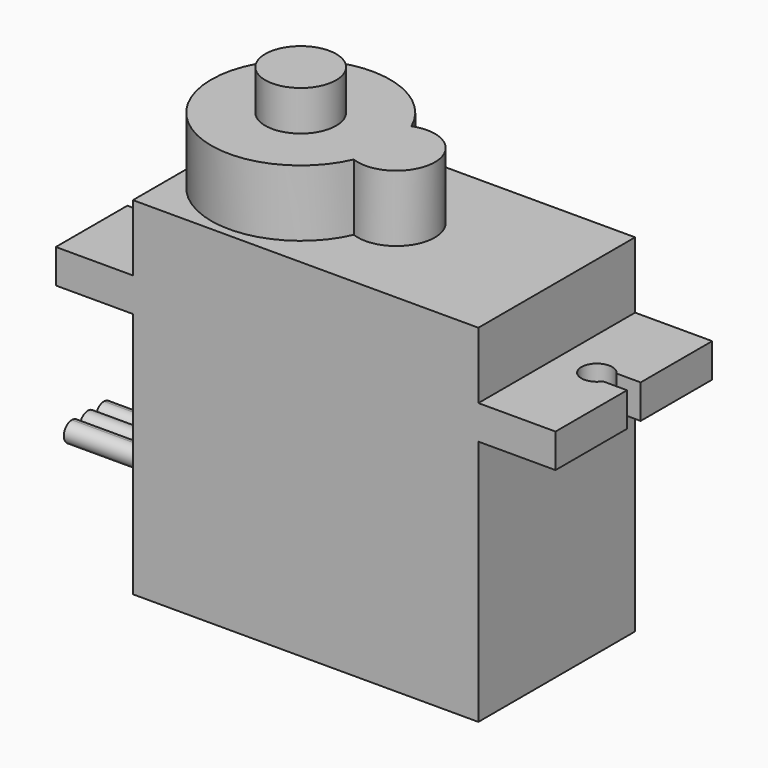
from build123d import *

# Parameters (mm, degrees)
CYLINDER003_R             = 0.65
CYLINDER003_DEPTH         = 10
CYLINDER003_PITCH_ANGLE   = -90
CYLINDER004_R             = 0.65
CYLINDER004_DEPTH         = 10
CYLINDER004_PITCH_ANGLE   = -90
CYLINDER005_R             = 0.65
CYLINDER005_DEPTH         = 10
CYLINDER005_PITCH_ANGLE   = -90
CYLINDER006_R             = 1
CYLINDER006_DEPTH         = 10
BOX005_W                  = 10
BOX005_H                  = 1.1
BOX005_DEPTH              = 10
CYLINDER007_R             = 1
CYLINDER007_DEPTH         = 10
BOX006_W                  = 10
BOX006_H                  = 1.1
BOX006_DEPTH              = 10
FUSION008_PLACEMENT_ANGLE = 180
BOX004_W                  = 5
BOX004_H                  = 12.7
BOX004_DEPTH              = 4.3
BOX003_W                  = 5
BOX003_H                  = 12.7
BOX003_DEPTH              = 4.3
BOX001_W                  = 5
BOX001_H                  = 12.7
BOX001_DEPTH              = 16
BOX002_W                  = 5
BOX002_H                  = 12.7
BOX002_DEPTH              = 16
BOX_W                     = 32.4
BOX_H                     = 12.7
BOX_DEPTH                 = 22.5
CYLINDER001_R             = 2.3
CYLINDER001_DEPTH         = 29.4
CYLINDER002_R             = 2.5
CYLINDER002_DEPTH         = 26.8
CYLINDER_R                = 5.8
CYLINDER_DEPTH            = 26.8


with BuildPart() as obj1:
    # Cylinder003 → Cylinder003 (new body)
    with BuildSketch(Plane.XY):
        Circle(CYLINDER003_R)
    extrude(amount=CYLINDER003_DEPTH)


with BuildPart() as obj1_1:
    # Cylinder003 pitch: moved
    add(obj1.part.rotate(Axis((0, 0, 0), (0, 1, 0)), CYLINDER003_PITCH_ANGLE))


with BuildPart() as obj1_2:
    # Cylinder003 placement: moved
    add(obj1_1.part)


with BuildPart() as obj2:
    # Cylinder004 → Cylinder004 (new body)
    with BuildSketch(Plane.XY):
        Circle(CYLINDER004_R)
    extrude(amount=CYLINDER004_DEPTH)


with BuildPart() as obj2_1:
    # Cylinder004 pitch: moved
    add(obj2.part.rotate(Axis((0, 0, 0), (0, 1, 0)), CYLINDER004_PITCH_ANGLE))


with BuildPart() as obj2_2:
    # Cylinder004 placement: moved
    add(obj2_1.part.moved(Location((0, 1.3, 0))))


with BuildPart() as cables:
    # Cylinder005 → Cylinder005 (new body)
    with BuildSketch(Plane.XY):
        Circle(CYLINDER005_R)
    extrude(amount=CYLINDER005_DEPTH)


with BuildPart() as cables_1:
    # Cylinder005 pitch: moved
    add(cables.part.rotate(Axis((0, 0, 0), (0, 1, 0)), CYLINDER005_PITCH_ANGLE))


with BuildPart() as cables_2:
    # Cylinder005 placement: moved
    add(cables_1.part.moved(Location((0, -1.3, 0))))

    # Fusion003: union obj1, obj2
    add(obj1_2.part)
    add(obj2_2.part)


with BuildPart() as cables_3:
    # Fusion003 placement: moved
    add(cables_2.part.moved(Location((7, 6.35, 4.65))))


with BuildPart() as zylinder:
    # Cylinder006 → Cylinder006 (new body)
    with BuildSketch(Plane.XY):
        Circle(CYLINDER006_R)
    extrude(amount=CYLINDER006_DEPTH)


with BuildPart() as obj3:
    # Box005 → Box005 (new body)
    with BuildSketch(Plane(origin=(-10, -0.55, 0), x_dir=(1, 0, 0), z_dir=(0, 0, 1))):
        with Locations((5, 0.55)):
            Rectangle(BOX005_W, BOX005_H)
    extrude(amount=BOX005_DEPTH)

    # Fusion007: union Zylinder
    add(zylinder.part)


with BuildPart() as obj3_1:
    # Fusion007 placement: moved
    add(obj3.part.moved(Location((2.4, 0, 0))))


with BuildPart() as zylinder001:
    # Cylinder007 → Cylinder007 (new body)
    with BuildSketch(Plane.XY):
        Circle(CYLINDER007_R)
    extrude(amount=CYLINDER007_DEPTH)


with BuildPart() as drillslots:
    # Box006 → Box006 (new body)
    with BuildSketch(Plane(origin=(-10, -0.55, 0), x_dir=(1, 0, 0), z_dir=(0, 0, 1))):
        with Locations((5, 0.55)):
            Rectangle(BOX006_W, BOX006_H)
    extrude(amount=BOX006_DEPTH)

    # Fusion008: union Zylinder001
    add(zylinder001.part)


with BuildPart() as drillslots_1:
    # Fusion008 placement: moved
    add(drillslots.part.moved(Location((30, 0, 0))).rotate(Axis((30, 0, 0), (0, 0, 1)), FUSION008_PLACEMENT_ANGLE))

    # Fusion009: union obj3
    add(obj3_1.part)


with BuildPart() as drillslots_2:
    # Fusion009 placement: moved
    add(drillslots_1.part.moved(Location((0, 6.35, 13))))


with BuildPart() as obj4:
    # Box004 → Box004 (new body)
    with BuildSketch(Plane(origin=(27.4, 0, 0), x_dir=(1, 0, 0), z_dir=(0, 0, 1))):
        with Locations((2.5, 6.35)):
            Rectangle(BOX004_W, BOX004_H)
    extrude(amount=BOX004_DEPTH)


with BuildPart() as uppercuts:
    # Box003 → Box003 (new body)
    with BuildSketch(Plane.XY):
        with Locations((2.5, 6.35)):
            Rectangle(BOX003_W, BOX003_H)
    extrude(amount=BOX003_DEPTH)

    # Fusion: union obj4
    add(obj4.part)


with BuildPart() as uppercuts_1:
    # Fusion placement: moved
    add(uppercuts.part.moved(Location((0, 0, 18.2))))


with BuildPart() as obj5:
    # Box001 → Box001 (new body)
    with BuildSketch(Plane.XY):
        with Locations((2.5, 6.35)):
            Rectangle(BOX001_W, BOX001_H)
    extrude(amount=BOX001_DEPTH)


with BuildPart() as obj6:
    # Box002 → Box002 (new body)
    with BuildSketch(Plane(origin=(27.4, 0, 0), x_dir=(1, 0, 0), z_dir=(0, 0, 1))):
        with Locations((2.5, 6.35)):
            Rectangle(BOX002_W, BOX002_H)
    extrude(amount=BOX002_DEPTH)


with BuildPart() as cutbody:
    # Box → Box (new body)
    with BuildSketch(Plane.XY):
        with Locations((16.2, 6.35)):
            Rectangle(BOX_W, BOX_H)
    extrude(amount=BOX_DEPTH)

    # Cut: cut obj6
    add(obj6.part, mode=Mode.SUBTRACT)

    # Cut001: cut obj5
    add(obj5.part, mode=Mode.SUBTRACT)

    # Cut002: cut UpperCuts
    add(uppercuts_1.part, mode=Mode.SUBTRACT)

    # Cut003: cut DrillSlots
    add(drillslots_2.part, mode=Mode.SUBTRACT)


with BuildPart() as axis:
    # Cylinder001 → Cylinder001 (new body)
    with BuildSketch(Plane(origin=(10.8, 6.35, 0), x_dir=(1, 0, 0), z_dir=(0, 0, 1))):
        Circle(CYLINDER001_R)
    extrude(amount=CYLINDER001_DEPTH)


with BuildPart() as sideaxis:
    # Cylinder002 → Cylinder002 (new body)
    with BuildSketch(Plane(origin=(17, 6.35, 0), x_dir=(1, 0, 0), z_dir=(0, 0, 1))):
        Circle(CYLINDER002_R)
    extrude(amount=CYLINDER002_DEPTH)


with BuildPart() as obj7:
    # Cylinder → Cylinder (new body)
    with BuildSketch(Plane(origin=(10.8, 6.35, 0), x_dir=(1, 0, 0), z_dir=(0, 0, 1))):
        Circle(CYLINDER_R)
    extrude(amount=CYLINDER_DEPTH)

    # Fusion004: union SideAxis
    add(sideaxis.part)

    # Fusion005: union Axis
    add(axis.part)

    # Fusion010: union Cables, CutBody
    add(cables_3.part)
    add(cutbody.part)


solid = obj7.part
